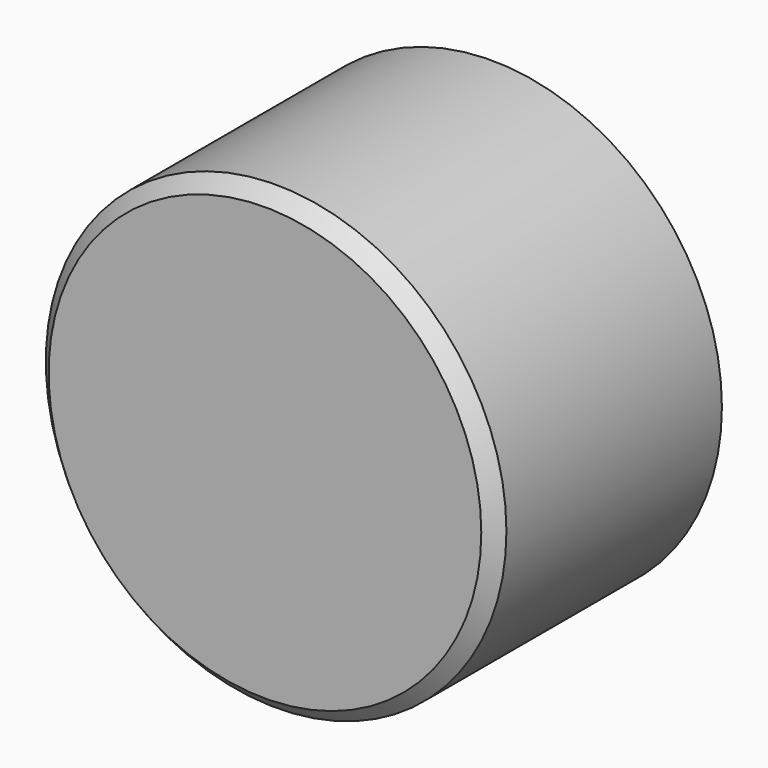
from build123d import *

# Parameters (mm, degrees)
F0_R     = 12.573
F1_DEPTH = 15.4686
F2_R     = 9.398
F3_DEPTH = 3.048
F4_SIZE  = 0.762
F5_R     = 3
F6_DEPTH = 6.35


with BuildPart() as f1:
    # F0 (on Front) → F1 (new body)
    with BuildSketch(Plane.XZ):
        Circle(F0_R)
    extrude(amount=F1_DEPTH)

    # F2 (on face) → F3 (cut)
    with BuildSketch(Plane(origin=(0, 0, 0), x_dir=(-1, 0, 0), z_dir=(0, 1, 0))):
        Circle(F2_R)
    extrude(amount=-F3_DEPTH, mode=Mode.SUBTRACT)

    # F4
    f4_edges = [f1.edges().sort_by_distance(p)[0] for p in [
        (-12.573, -15.4686, 0),
    ]]
    chamfer(f4_edges, length=F4_SIZE)

    # F5 (on face) → F6 (join)
    with BuildSketch(Plane(origin=(0, -3.048, 0), x_dir=(-1, 0, 0), z_dir=(0, 1, 0))):
        Circle(F5_R)
    extrude(amount=F6_DEPTH)


solid = f1.part
